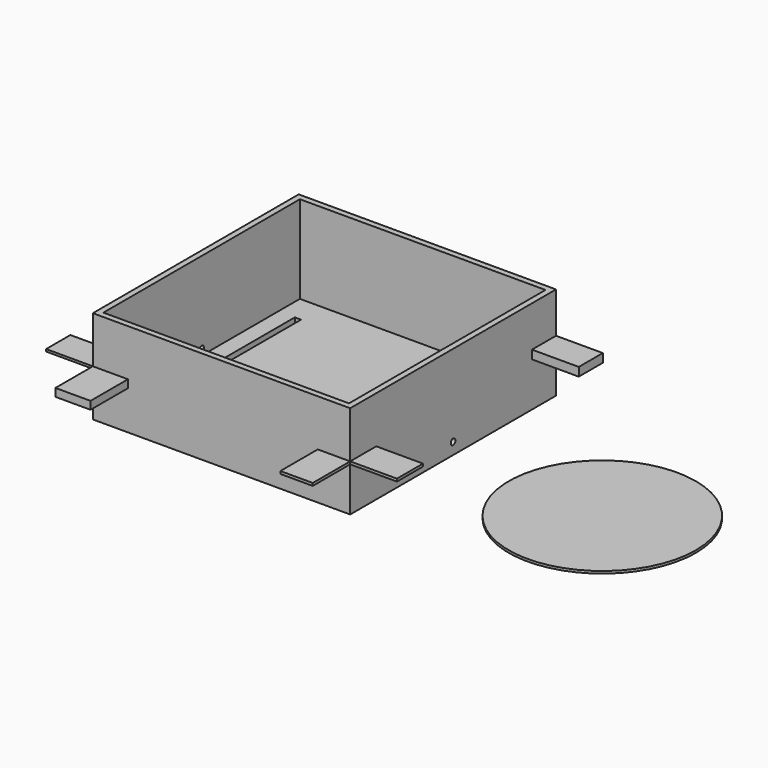
from build123d import *

# Parameters (mm, degrees)
F0_W      = 133.35
F0_H      = 133.35
F0_W_2    = 3.175
F0_H_2    = 3.175
F1_DEPTH  = 3.175
F2_DEPTH  = 50.8
F3_W      = 41.094694
F3_H      = 4.367494
F4_DEPTH  = 38.1
F5_W      = 16.569869
F5_H      = 1.219057
F5_W_2    = 16.489192
F6_DEPTH  = 25.4
F7_W      = 17.686799
F7_H      = 1.416972
F7_W_2    = 16.322573
F7_H_2    = 4.66725
F8_DEPTH  = 25.4
F9_W      = 17.585407
F9_H      = 1.416972
F10_DEPTH = 25.4
F12_D     = 3.175
F13_W     = 3.380321
F13_H     = 102.044156
F13_W_2   = 3.625512
F13_H_2   = 104.0543
F14_DEPTH = 25.4
F15_R     = 50.8
F16_DEPTH = 1.27


with BuildPart() as f1:
    # F0 (on Top) → F1 (new body)
    with BuildSketch(Plane.XY):
        with Locations((-22.956216, 3.19055)):
            Rectangle(F0_W, F0_H)
        with Locations((-91.218716, 71.45305)):
            Rectangle(F0_W_2, F0_H_2)
        Polygon((46.893784, 73.04055), (-89.631216, 73.04055), (-89.631216, 69.86555), (43.718784, 69.86555), (43.718784, -63.48445), (46.893784, -63.48445), align=None)
        Polygon((-89.631216, 69.86555), (-92.806216, 69.86555), (-92.806216, -66.65945), (43.718784, -66.65945), (43.718784, -63.48445), (-89.631216, -63.48445), align=None)
        with Locations((45.306284, -65.07195)):
            Rectangle(F0_W_2, F0_H_2)
    extrude(amount=F1_DEPTH)

    # F0 (on Top) → F2 (join)
    with BuildSketch(Plane.XY):
        with Locations((-91.218716, 71.45305)):
            Rectangle(F0_W_2, F0_H_2)
        Polygon((46.893784, 73.04055), (-89.631216, 73.04055), (-89.631216, 69.86555), (43.718784, 69.86555), (43.718784, -63.48445), (46.893784, -63.48445), align=None)
        Polygon((-89.631216, 69.86555), (-92.806216, 69.86555), (-92.806216, -66.65945), (43.718784, -66.65945), (43.718784, -63.48445), (-89.631216, -63.48445), align=None)
        with Locations((45.306284, -65.07195)):
            Rectangle(F0_W_2, F0_H_2)
    extrude(amount=F2_DEPTH)

    # F3 (on face) → F4 (join)
    with BuildSketch(Plane(origin=(0, 73.04055, 0), x_dir=(-1, 0, 0), z_dir=(0, 1, 0))):
        with Locations((25.800167, 23.216253)):
            Rectangle(F3_W, F3_H)
    extrude(amount=F4_DEPTH)

    # F5 (on face) → F6 (join)
    with BuildSketch(Plane(origin=(-92.806216, 0, 0), x_dir=(0, -1, 0), z_dir=(-1, 0, 0))):
        with Locations((-64.755616, 24.790471)):
            Rectangle(F5_W, F5_H)
        with Locations((58.414854, 24.790471)):
            Rectangle(F5_W_2, F5_H)
    extrude(amount=F6_DEPTH)

    # F7 (on face) → F8 (join)
    with BuildSketch(Plane.YZ.offset(46.893784)):
        with Locations((-57.81605, 24.691514)):
            Rectangle(F7_W, F7_H)
        with Locations((64.879263, 26.316653)):
            Rectangle(F7_W_2, F7_H_2)
    extrude(amount=F8_DEPTH)

    # F9 (on face) → F10 (join)
    with BuildSketch(Plane.XZ.offset(66.65945)):
        Polygon((-73.769018, 25.4), (-92.806216, 25.4), (-92.806216, 24.180943), (-92.806216, 21.125272), (-73.769018, 21.125272), align=None)
        with Locations((38.10108, 24.691514)):
            Rectangle(F9_W, F9_H)
    extrude(amount=F10_DEPTH)

    # F12 (through all)
    with Locations(Plane(origin=(-92.806216, 0, 0), x_dir=(0, -1, 0), z_dir=(-1, 0, 0))):
        with Locations((-3.19055, 6.35)):
            Hole(F12_D / 2)

    # F13 (on face) → F14 (cut)
    with BuildSketch(Plane.XY):
        with Locations((-79.005237, 4.21339)):
            Rectangle(F13_W, F13_H)
        with Locations((33.377264, 3.468466)):
            Rectangle(F13_W_2, F13_H_2)
    extrude(amount=F14_DEPTH, mode=Mode.SUBTRACT)


with BuildPart() as f16:
    # F15 (on Top) → F16 (new body)
    with BuildSketch(Plane.XY):
        with Locations((132.567152, -2.641031)):
            Circle(F15_R)
    extrude(amount=F16_DEPTH)


solid = Compound([f1.part, f16.part])
